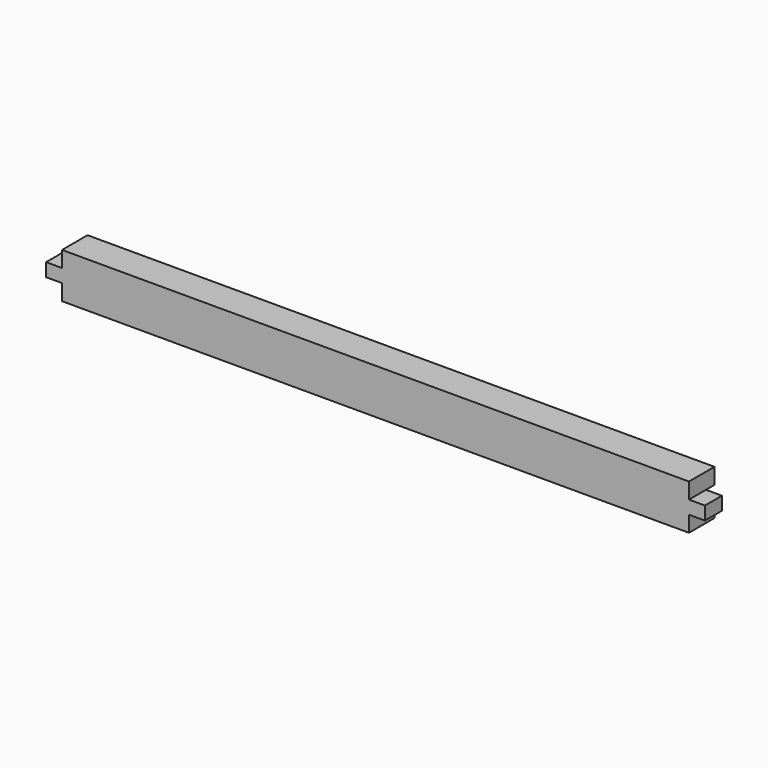
from build123d import *

# Parameters (mm, degrees)
F1_DEPTH      = 19.05
F2_W          = 6.35
F2_H          = 7.9375
F3_DEPTH      = 196.851
F3_DEPTH_BACK = 196.851


with BuildPart() as f1:
    # F0 (on Front) → F1 (new body)
    with BuildSketch(Plane.XZ):
        Polygon((-196.85, 3.96875), (-196.85, -3.96875), (-187.325, -3.96875), (-187.325, -13.49375), (187.325, -13.49375), (187.325, -3.96875), (196.85, -3.96875), (196.85, 3.96875), (187.325, 3.96875), (187.325, 13.49375), (-187.325, 13.49375), (-187.325, 3.96875), align=None)
    extrude(amount=F1_DEPTH)

    # F2 (on Right) → F3 (cut, two sides)
    with BuildSketch(Plane.YZ) as f3_sk:
        with Locations((-3.175, 0)):
            Rectangle(F2_W, F2_H)
    extrude(amount=-F3_DEPTH, mode=Mode.SUBTRACT)
    extrude(f3_sk.sketch, amount=F3_DEPTH_BACK, mode=Mode.SUBTRACT)


solid = f1.part
